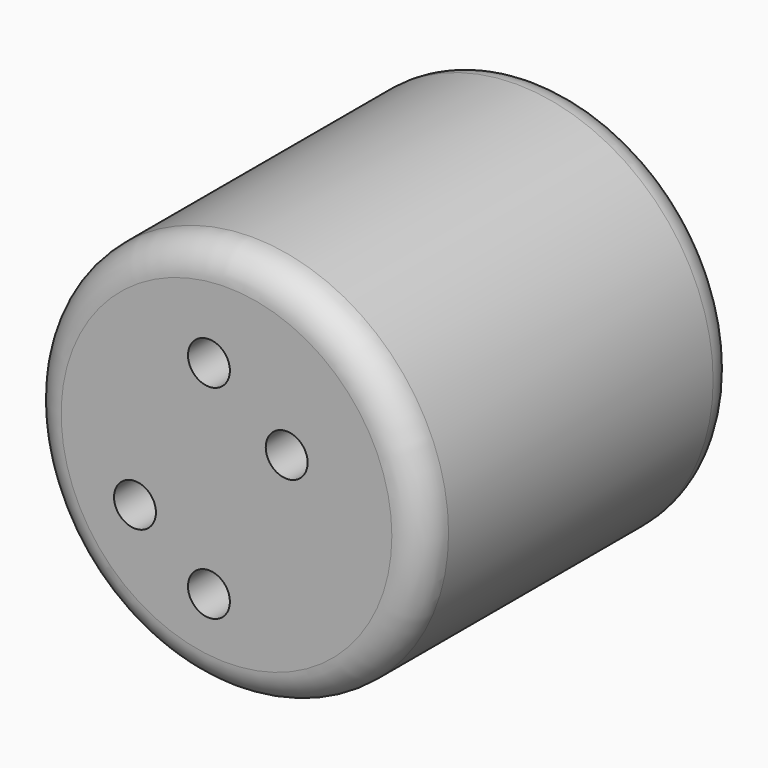
from build123d import *

# Parameters (mm, degrees)
F0_R     = 31.75
F1_DEPTH = 63.5
F2_R     = 5.08
F4_D     = 6.7564


with BuildPart() as f1:
    # F0 (on Front) → F1 (new body)
    with BuildSketch(Plane.XZ):
        with Locations((-34.2211462557, 0)):
            Circle(F0_R)
    extrude(amount=F1_DEPTH)

    # F2
    f2_edges = [f1.edges().sort_by_distance(p)[0] for p in [
        (-2.471146, -31.75, 0),
        (-65.971146, 0, 0),
        (-65.971146, -63.5, 0),
    ]]
    fillet(f2_edges, radius=F2_R)

    # F4 (through all)
    with Locations(Plane.XZ.offset(63.5)):
        with Locations((-24.5181079954, 5.975802429), (-37.0556861162, 14.9742206559), (-48.9838346839, -9.0467510745), (-37.0556861162, -17.8351700306)):
            Hole(F4_D / 2)


solid = f1.part
